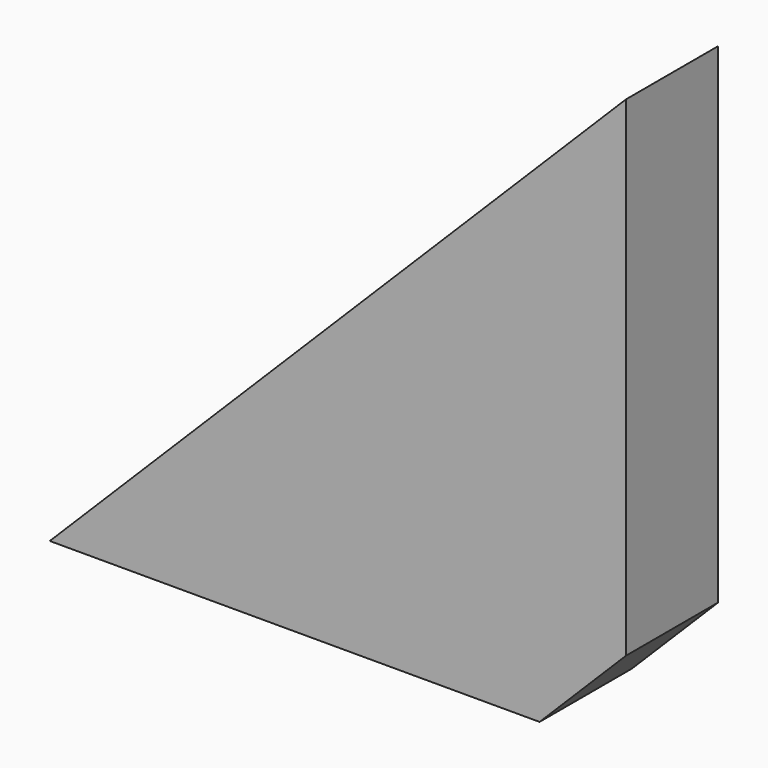
from build123d import *

# Parameters (mm, degrees)
F1_DEPTH = 20
F2_SIZE  = 15


with BuildPart() as f1:
    # F0 (on Front) → F1 (new body)
    with BuildSketch(Plane.XZ):
        Polygon((-100, 0), (0, 0), (0, 100), align=None)
    extrude(amount=F1_DEPTH)

    # F2
    f2_edges = [f1.edges().sort_by_distance(p)[0] for p in [
        (0, -10, 0),
    ]]
    chamfer(f2_edges, length=F2_SIZE)


solid = f1.part
